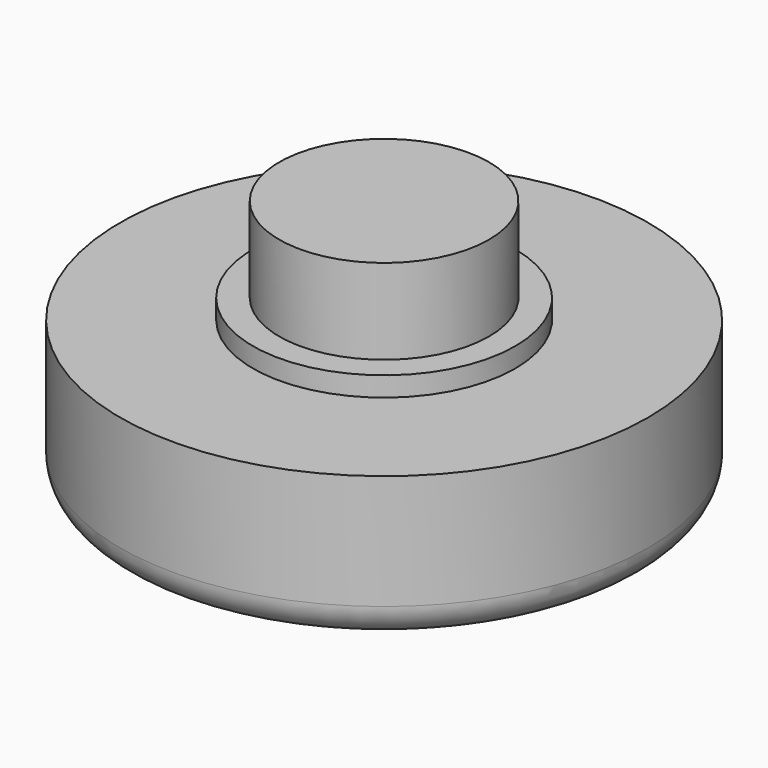
from build123d import *

# Parameters (mm, degrees)
F0_R     = 10.2235
F3_DEPTH = 5.715
F1_R     = 5.08
F4_DEPTH = 6.477
F2_R     = 4.064
F5_DEPTH = 9.779
F6_R     = 1.27


with BuildPart() as f3:
    # F0 (on Top) → F3 (new body)
    with BuildSketch(Plane.XY):
        Circle(F0_R)
    extrude(amount=F3_DEPTH)

    # F1 (on Top) → F4 (join)
    with BuildSketch(Plane.XY):
        Circle(F1_R)
    extrude(amount=F4_DEPTH)

    # F2 (on Top) → F5 (join)
    with BuildSketch(Plane.XY):
        Circle(F2_R)
    extrude(amount=F5_DEPTH)

    # F6
    f6_edges = [f3.edges().sort_by_distance(p)[0] for p in [
        (-10.2235, 0, 0),
    ]]
    fillet(f6_edges, radius=F6_R)


solid = f3.part
